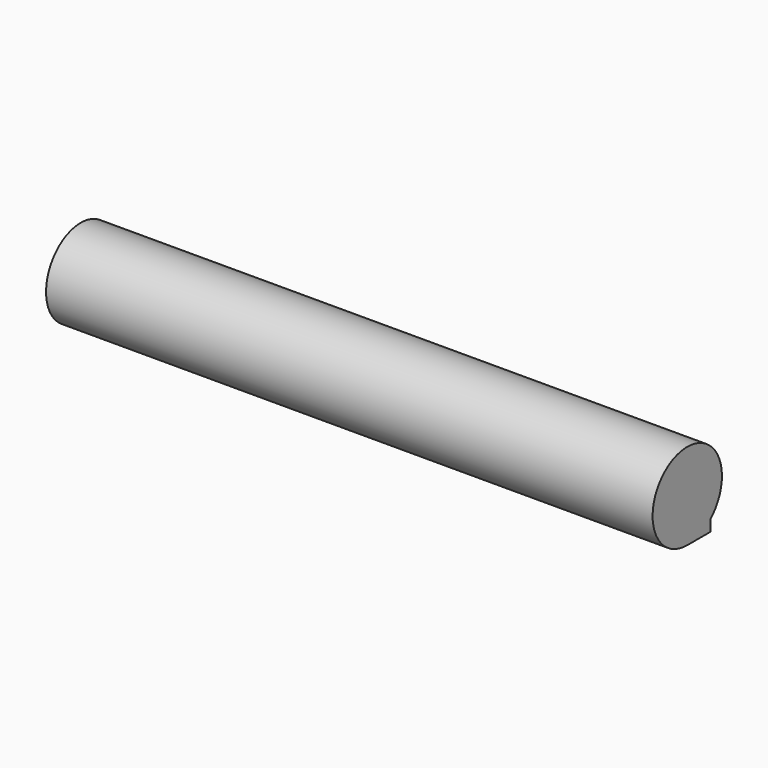
from build123d import *

# Parameters (mm, degrees)
F0_W      = 533.4
F0_H      = 38.1
F1_DEPTH  = 25.4
F1_FACE_W = 533.4
F1_FACE_H = 38.1


with BuildPart() as f1:
    # F0 (on Front) → F1 (new body)
    with BuildSketch(Plane.XZ):
        with Locations((-4.527336, 19.05)):
            Rectangle(F0_W, F0_H)
    extrude(amount=F1_DEPTH)

    # F1_face (on face) → F2 (revolve)
    with BuildSketch(Plane(origin=(-4.527336, -25.4, 19.05), x_dir=(1, 0, 0), z_dir=(0, -1, 0))):
        Rectangle(F1_FACE_W, F1_FACE_H)
    revolve(axis=Axis((-4.527336, -25.4, 38.1), (-1, 0, 0)))


solid = f1.part
